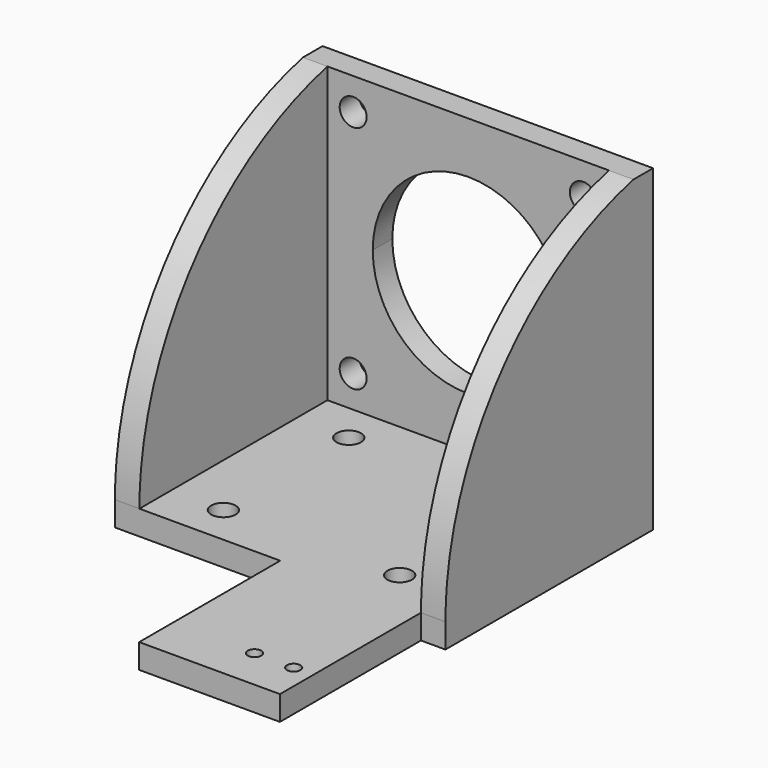
from build123d import *

# Parameters (mm, degrees)
SKETCH006_R                = 2.75
PAD003_DEPTH               = 5
SKETCH006_MIRRORED003_2_R  = 2.75
PAD003_MIRRORED003_2_DEPTH = 5
BOX_W                      = 32.75
BOX_H                      = 5
BOX_DEPTH                  = 5
SKETCH007_W                = 28.75
SKETCH007_H                = 24
SKETCH007_R                = 2.5
PAD004_DEPTH               = 5
SKETCH007_MIRRORED006_2_W  = 28.75
SKETCH007_MIRRORED006_2_H  = 24
SKETCH007_MIRRORED006_2_R  = 2.5
PAD004_MIRRORED006_2_DEPTH = 5
PAD005_DEPTH               = 5
SKETCH009_R                = 1.375
PAD006_DEPTH               = 5


with BuildPart() as part:
    # Sketch006 → Pad003 (new body)
    with BuildSketch(Plane(origin=(0, 0, 30), x_dir=(1, 0, 0), z_dir=(0, -1, 0))):
        with BuildLine():
            ThreePointArc((19.5, 0), (13.788582, 13.788582), (0, 19.5))
            Line((0, 19.5), (0, 30))
            Line((28.75, 30), (0, 30))
            Line((28.75, 30), (28.75, 0))
            Line((19.5, 0), (28.75, 0))
        make_face()
        with Locations((23.5, 23.5)):
            Circle(SKETCH006_R, mode=Mode.SUBTRACT)
    pad003 = extrude(amount=PAD003_DEPTH)

    # Sketch006 Mirrored003 2 → Pad003 Mirrored003 2 (add)
    with BuildSketch(Plane(origin=(0, 0, 30), x_dir=(-1, 0, 0), z_dir=(0, 1, 0))):
        with BuildLine():
            ThreePointArc((19.5, 0), (13.788582, 13.788582), (0, 19.5))
            Line((0, 19.5), (0, 30))
            Line((28.75, 30), (0, 30))
            Line((28.75, 30), (28.75, 0))
            Line((19.5, 0), (28.75, 0))
        make_face()
        with Locations((23.5, 23.5)):
            Circle(SKETCH006_MIRRORED003_2_R, mode=Mode.SUBTRACT)
    pad003_mirrored003_2 = extrude(amount=-PAD003_MIRRORED003_2_DEPTH)

    # Mirrored004: Pad003, Pad003 Mirrored003 2 across Sketch006 H_Axis
    add(pad003.mirror(Plane(origin=(0, 0, 30), x_dir=(0, -1, 0), z_dir=(0, 0, 1))))
    add(pad003_mirrored003_2.mirror(Plane(origin=(0, 0, 30), x_dir=(0, -1, 0), z_dir=(0, 0, 1))))

    # Box → Box (join)
    with BuildSketch(Plane(origin=(0, -5, -5), x_dir=(1, 0, 0), z_dir=(0, 0, 1))):
        with Locations((16.375, 2.5)):
            Rectangle(BOX_W, BOX_H)
    box = extrude(amount=BOX_DEPTH)

    # Mirrored005: Box across YZ
    add(box.mirror(Plane.YZ))

    # Sketch007 → Pad004 (join)
    with BuildSketch(Plane(origin=(0, -29, 0), x_dir=(1, 0, 0), z_dir=(0, 0, 1))):
        with Locations((14.375, 12)):
            Rectangle(SKETCH007_W, SKETCH007_H)
        with Locations((18, 16)):
            Circle(SKETCH007_R, mode=Mode.SUBTRACT)
    pad004 = extrude(amount=-PAD004_DEPTH)

    # Sketch007 Mirrored006 2 → Pad004 Mirrored006 2 (add)
    with BuildSketch(Plane(origin=(0, -29, 0), x_dir=(-1, 0, 0), z_dir=(0, 0, -1))):
        with Locations((14.375, 12)):
            Rectangle(SKETCH007_MIRRORED006_2_W, SKETCH007_MIRRORED006_2_H)
        with Locations((18, 16)):
            Circle(SKETCH007_MIRRORED006_2_R, mode=Mode.SUBTRACT)
    pad004_mirrored006_2 = extrude(amount=PAD004_MIRRORED006_2_DEPTH)

    # Mirrored007: Pad004, Pad004 Mirrored006 2 across Sketch007 H_Axis
    add(pad004.mirror(Plane.ZX.offset(-29)))
    add(pad004_mirrored006_2.mirror(Plane.ZX.offset(-29)))

    # Sketch008 → Pad005 (join)
    with BuildSketch(Plane.YZ.offset(28.75)):
        with BuildLine():
            Line((0, 60), (-5, 60))
            add(Edge.make_bspline(
                [(-5, 60), (-53, 48.806333), (-53, 0)],
                knots=[1.802205, 1.802205, 1.802205, 3.141593, 3.141593, 3.141593], degree=2, weights=[1, 0.784012, 1]))
            Line((-53, 0), (-53, -5))
            Line((-53, -5), (0, -5))
            Line((0, -5), (0, 60))
        make_face()
    pad005 = extrude(amount=PAD005_DEPTH)

    # Mirrored008: Pad005 across YZ
    add(pad005.mirror(Plane.YZ))

    # Sketch009 → Pad006 (join)
    with BuildSketch(Plane.XY):
        Polygon((28.75, -72), (28.75, -53), (0, -53), (0, -72), (0, -89), (28.75, -89), (28.75, -80.5), align=None)
        with Locations((24.75, -80.5)):
            Circle(SKETCH009_R, mode=Mode.SUBTRACT)
        with Locations((16.75, -80.5)):
            Circle(SKETCH009_R, mode=Mode.SUBTRACT)
    extrude(amount=-PAD006_DEPTH)


solid = part.part
